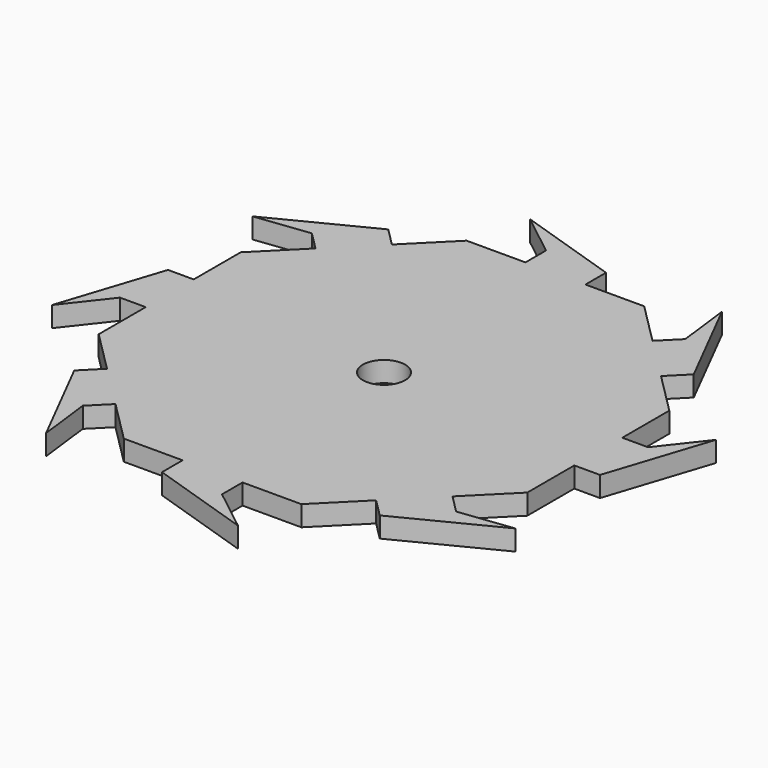
from build123d import *

# Parameters (mm, degrees)
F1_DEPTH = 2.38
F2_R     = 2.465
F3_DEPTH = 25


with BuildPart() as f1:
    # F0 (on Top) → F1 (new body)
    with BuildSketch(Plane.XY):
        Polygon((-17.67767, 17.67767), (0, 0), (-10.355339, 25), (-15.202796, 20.152543), align=None)
        Polygon((0, 25), (0, 0), (10.355339, 25), (3.5, 25), align=None)
        Polygon((-10.355339, 25), (0, 0), (0, 25), (-3.5, 25), align=None)
        Polygon((-25, 10.355339), (0, 0), (-17.67767, 17.67767), (-20.152543, 15.202796), align=None)
        Polygon((-25, 0), (0, 0), (-25, 10.355339), (-25, 3.5), align=None)
        Polygon((-25, -10.355339), (0, 0), (-25, 0), (-25, -3.5), align=None)
        Polygon((-17.67767, -17.67767), (0, 0), (-25, -10.355339), (-20.152543, -15.202796), align=None)
        Polygon((-10.355339, -25), (0, 0), (-17.67767, -17.67767), (-15.202796, -20.152543), align=None)
        Polygon((0, -25), (0, 0), (-10.355339, -25), (-3.5, -25), align=None)
        Polygon((10.355339, -25), (0, 0), (0, -25), (3.5, -25), align=None)
        Polygon((17.67767, -17.67767), (0, 0), (10.355339, -25), (15.202796, -20.152543), align=None)
        Polygon((25, -10.355339), (0, 0), (17.67767, -17.67767), (20.152543, -15.202796), align=None)
        Polygon((25, 0), (0, 0), (25, -10.355339), (25, -3.5), align=None)
        Polygon((25, 10.355339), (0, 0), (25, 0), (25, 3.5), align=None)
        Polygon((17.67767, 17.67767), (0, 0), (25, 10.355339), (20.152543, 15.202796), align=None)
        Polygon((10.355339, 25), (0, 0), (17.67767, 17.67767), (15.202796, 20.152543), align=None)
        Polygon((-3.5, 25), (0, 25), (3.5, 25), (3.5, 28), (-3.5, 28), align=None)
        Polygon((-20.152543, 15.202796), (-17.67767, 17.67767), (-15.202796, 20.152543), (-17.324116, 22.273864), (-22.273864, 17.324116), align=None)
        Polygon((-25, -3.5), (-25, 0), (-25, 3.5), (-28, 3.5), (-28, -3.5), align=None)
        Polygon((-15.202796, -20.152543), (-17.67767, -17.67767), (-20.152543, -15.202796), (-22.273864, -17.324116), (-17.324116, -22.273864), align=None)
        Polygon((3.5, -25), (0, -25), (-3.5, -25), (-3.5, -28), (3.5, -28), align=None)
        Polygon((20.152543, -15.202796), (17.67767, -17.67767), (15.202796, -20.152543), (17.324116, -22.273864), (22.273864, -17.324116), align=None)
        Polygon((25, 3.5), (25, 0), (25, -3.5), (28, -3.5), (28, 3.5), align=None)
        Polygon((15.202796, 20.152543), (17.67767, 17.67767), (20.152543, 15.202796), (22.273864, 17.324116), (17.324116, 22.273864), align=None)
        Polygon((-8.5, 31.91786), (-3.5, 28), (3.5, 28), align=None)
        Polygon((-22.273864, 17.324116), (-17.324116, 22.273864), (-28.579743, 16.558928), align=None)
        Polygon((16.558928, 28.579743), (17.324116, 22.273864), (22.273864, 17.324116), align=None)
        Polygon((-28, -3.5), (-28, 3.5), (-31.91786, -8.5), align=None)
        Polygon((-17.324116, -22.273864), (-22.273864, -17.324116), (-16.558928, -28.579743), align=None)
        Polygon((3.5, -28), (-3.5, -28), (8.5, -31.91786), align=None)
        Polygon((22.273864, -17.324116), (17.324116, -22.273864), (28.579743, -16.558928), align=None)
        Polygon((28, 3.5), (28, -3.5), (31.91786, 8.5), align=None)
    extrude(amount=F1_DEPTH)

    # F2 (on face) → F3 (cut)
    with BuildSketch(Plane.XY.offset(2.38)):
        Circle(F2_R)
    extrude(amount=-F3_DEPTH, mode=Mode.SUBTRACT)


solid = f1.part
